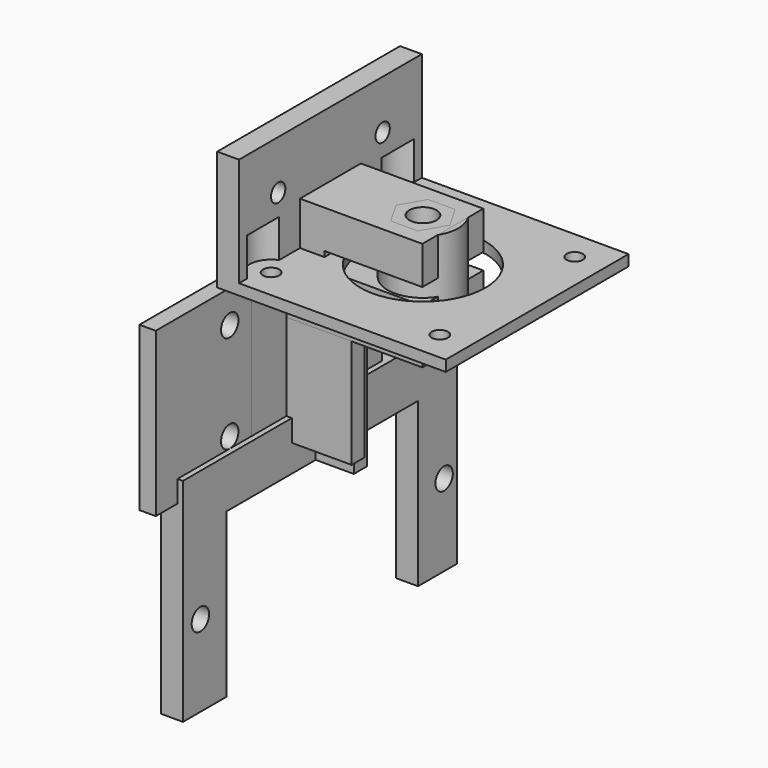
from build123d import *

# Parameters (mm, degrees)
CYLINDER004_R           = 2.5
CYLINDER004_DEPTH       = 20
CYLINDER005_R           = 1.3
CYLINDER005_DEPTH       = 20
CYLINDER005_ROLL_ANGLE  = 90
CYLINDER006_R           = 1.3
CYLINDER006_DEPTH       = 20
CYLINDER006_ROLL_ANGLE  = 90
CYLINDER003_R           = 6.5
CYLINDER003_DEPTH       = 20
CYLINDER010_R           = 1.5
CYLINDER010_DEPTH       = 10
CYLINDER014_R           = 1.65
CYLINDER014_DEPTH       = 10
CYLINDER014_PITCH_ANGLE = 90
CYLINDER011_R           = 1.5
CYLINDER011_DEPTH       = 10
CYLINDER007_R           = 11.5
CYLINDER007_DEPTH       = 10
CYLINDER008_R           = 1.5
CYLINDER008_DEPTH       = 10
CYLINDER009_R           = 1.5
CYLINDER009_DEPTH       = 10
CYLINDER012_R           = 4
CYLINDER012_DEPTH       = 7
CYLINDER013_R           = 4
CYLINDER013_DEPTH       = 7
CYLINDER015_R           = 1.65
CYLINDER015_DEPTH       = 10
CYLINDER015_PITCH_ANGLE = 90
BOX004_W                = 42
BOX004_H                = 42
BOX004_DEPTH            = 2
BOX005_W                = 4
BOX005_H                = 42
BOX005_DEPTH            = 22
CYLINDER020_R           = 2
CYLINDER020_DEPTH       = 10
CYLINDER020_PITCH_ANGLE = 90
CYLINDER019_R           = 2
CYLINDER019_DEPTH       = 10
CYLINDER019_PITCH_ANGLE = 90
BOX013_W                = 15
BOX013_H                = 3
BOX013_DEPTH            = 30
BOX012_W                = 3
BOX012_H                = 44
BOX012_DEPTH            = 30
CYLINDER018_R           = 2.75
CYLINDER018_DEPTH       = 200
PRISM003_DEPTH          = 4
PRISM002_DEPTH          = 4
BOX010_W                = 28
BOX010_H                = 14
BOX010_DEPTH            = 10
BOX011_W                = 10
BOX011_H                = 14
BOX011_DEPTH            = 20
BOX009_W                = 28
BOX009_H                = 14
BOX009_DEPTH            = 7
CYLINDER017_R           = 2
CYLINDER017_DEPTH       = 10
CYLINDER017_PITCH_ANGLE = 90
CYLINDER016_R           = 2
CYLINDER016_DEPTH       = 10
CYLINDER016_PITCH_ANGLE = 90
BOX014_W                = 40
BOX014_H                = 44
BOX014_DEPTH            = 30
BOX007_W                = 3
BOX007_H                = 30
BOX007_DEPTH            = 65
CYLINDER_R              = 2.75
CYLINDER_DEPTH          = 200
PRISM001_DEPTH          = 4
PRISM_DEPTH             = 4
BOX003_W                = 28
BOX003_H                = 14
BOX003_DEPTH            = 10
BOX006_W                = 10
BOX006_H                = 14
BOX006_DEPTH            = 20
BOX_W                   = 28
BOX_H                   = 14
BOX_DEPTH               = 7
BOX015_W                = 4
BOX015_H                = 63
BOX015_DEPTH            = 39
BOX008_W                = 11
BOX008_H                = 3
BOX008_DEPTH            = 65


with BuildPart() as cylinder004:
    # Cylinder004 → Cylinder004 (new body)
    with BuildSketch(Plane.XY.offset(-10)):
        Circle(CYLINDER004_R)
    extrude(amount=CYLINDER004_DEPTH)


with BuildPart() as cylinder005:
    # Cylinder005 → Cylinder005 (new body)
    with BuildSketch(Plane.XY):
        Circle(CYLINDER005_R)
    extrude(amount=CYLINDER005_DEPTH)


with BuildPart() as cylinder005_1:
    # Cylinder005 roll: moved
    add(cylinder005.part.rotate(Axis((0, 0, 0), (1, 0, 0)), CYLINDER005_ROLL_ANGLE))


with BuildPart() as cylinder005_2:
    # Cylinder005 placement: moved
    add(cylinder005_1.part.moved(Location((0, 10, -5))))


with BuildPart() as fusion002:
    # Cylinder006 → Cylinder006 (new body)
    with BuildSketch(Plane.XY):
        Circle(CYLINDER006_R)
    extrude(amount=CYLINDER006_DEPTH)


with BuildPart() as fusion002_1:
    # Cylinder006 roll: moved
    add(fusion002.part.rotate(Axis((0, 0, 0), (1, 0, 0)), CYLINDER006_ROLL_ANGLE))


with BuildPart() as fusion002_2:
    # Cylinder006 placement: moved
    add(fusion002_1.part.moved(Location((0, 10, 5))))

    # Fusion002: union Cylinder004, Cylinder005
    add(cylinder004.part)
    add(cylinder005_2.part)


with BuildPart() as cut001:
    # Cylinder003 → Cylinder003 (new body)
    with BuildSketch(Plane.XY.offset(-10)):
        Circle(CYLINDER003_R)
    extrude(amount=CYLINDER003_DEPTH)

    # Cut001: cut Fusion002
    add(fusion002_2.part, mode=Mode.SUBTRACT)


with BuildPart() as cylinder010:
    # Cylinder010 → Cylinder010 (new body)
    with BuildSketch(Plane(origin=(-15.5, -15.5, 0), x_dir=(1, 0, 0), z_dir=(0, 0, 1))):
        Circle(CYLINDER010_R)
    extrude(amount=CYLINDER010_DEPTH)


with BuildPart() as cylinder014:
    # Cylinder014 → Cylinder014 (new body)
    with BuildSketch(Plane.XY):
        Circle(CYLINDER014_R)
    extrude(amount=CYLINDER014_DEPTH)


with BuildPart() as cylinder014_1:
    # Cylinder014 pitch: moved
    add(cylinder014.part.rotate(Axis((0, 0, 0), (0, 1, 0)), CYLINDER014_PITCH_ANGLE))


with BuildPart() as cylinder014_2:
    # Cylinder014 placement: moved
    add(cylinder014_1.part.moved(Location((-23, -12, 13))))


with BuildPart() as cylinder011:
    # Cylinder011 → Cylinder011 (new body)
    with BuildSketch(Plane(origin=(15.5, -15.5, 0), x_dir=(1, 0, 0), z_dir=(0, 0, 1))):
        Circle(CYLINDER011_R)
    extrude(amount=CYLINDER011_DEPTH)


with BuildPart() as cylinder007:
    # Cylinder007 → Cylinder007 (new body)
    with BuildSketch(Plane.XY):
        Circle(CYLINDER007_R)
    extrude(amount=CYLINDER007_DEPTH)


with BuildPart() as cylinder008:
    # Cylinder008 → Cylinder008 (new body)
    with BuildSketch(Plane(origin=(-15.5, 15.5, 0), x_dir=(1, 0, 0), z_dir=(0, 0, 1))):
        Circle(CYLINDER008_R)
    extrude(amount=CYLINDER008_DEPTH)


with BuildPart() as cylinder009:
    # Cylinder009 → Cylinder009 (new body)
    with BuildSketch(Plane(origin=(15.5, 15.5, 0), x_dir=(1, 0, 0), z_dir=(0, 0, 1))):
        Circle(CYLINDER009_R)
    extrude(amount=CYLINDER009_DEPTH)


with BuildPart() as cylinder012:
    # Cylinder012 → Cylinder012 (new body)
    with BuildSketch(Plane(origin=(-15.5, -15.5, 2), x_dir=(1, 0, 0), z_dir=(0, 0, 1))):
        Circle(CYLINDER012_R)
    extrude(amount=CYLINDER012_DEPTH)


with BuildPart() as cylinder013:
    # Cylinder013 → Cylinder013 (new body)
    with BuildSketch(Plane(origin=(-15.5, 15.5, 2), x_dir=(1, 0, 0), z_dir=(0, 0, 1))):
        Circle(CYLINDER013_R)
    extrude(amount=CYLINDER013_DEPTH)


with BuildPart() as fusion004:
    # Cylinder015 → Cylinder015 (new body)
    with BuildSketch(Plane.XY):
        Circle(CYLINDER015_R)
    extrude(amount=CYLINDER015_DEPTH)


with BuildPart() as fusion004_1:
    # Cylinder015 pitch: moved
    add(fusion004.part.rotate(Axis((0, 0, 0), (0, 1, 0)), CYLINDER015_PITCH_ANGLE))


with BuildPart() as fusion004_2:
    # Cylinder015 placement: moved
    add(fusion004_1.part.moved(Location((-23, 12, 13))))

    # Fusion004: union Cylinder010, Cylinder014, Cylinder011, Cylinder007, Cylinder008, Cylinder009, Cylinder012, Cylinder013
    add(cylinder010.part)
    add(cylinder014_2.part)
    add(cylinder011.part)
    add(cylinder007.part)
    add(cylinder008.part)
    add(cylinder009.part)
    add(cylinder012.part)
    add(cylinder013.part)


with BuildPart() as box004:
    # Box004 → Box004 (new body)
    with BuildSketch(Plane(origin=(-21, -21, 0), x_dir=(1, 0, 0), z_dir=(0, 0, 1))):
        with Locations((21, 21)):
            Rectangle(BOX004_W, BOX004_H)
    extrude(amount=BOX004_DEPTH)


with BuildPart() as cut002:
    # Box005 → Box005 (new body)
    with BuildSketch(Plane(origin=(-21, -21, 0), x_dir=(1, 0, 0), z_dir=(0, 0, 1))):
        with Locations((2, 21)):
            Rectangle(BOX005_W, BOX005_H)
    extrude(amount=BOX005_DEPTH)

    # Fusion003: union Box004
    add(box004.part)

    # Cut002: cut Fusion004
    add(fusion004_2.part, mode=Mode.SUBTRACT)


with BuildPart() as cylinder020:
    # Cylinder020 → Cylinder020 (new body)
    with BuildSketch(Plane.XY):
        Circle(CYLINDER020_R)
    extrude(amount=CYLINDER020_DEPTH)


with BuildPart() as cylinder020_1:
    # Cylinder020 pitch: moved
    add(cylinder020.part.rotate(Axis((0, 0, 0), (0, 1, 0)), CYLINDER020_PITCH_ANGLE))


with BuildPart() as cylinder020_2:
    # Cylinder020 placement: moved
    add(cylinder020_1.part.moved(Location((-22.5, -20, -24))))


with BuildPart() as fusion012:
    # Cylinder019 → Cylinder019 (new body)
    with BuildSketch(Plane.XY):
        Circle(CYLINDER019_R)
    extrude(amount=CYLINDER019_DEPTH)


with BuildPart() as fusion012_1:
    # Cylinder019 pitch: moved
    add(fusion012.part.rotate(Axis((0, 0, 0), (0, 1, 0)), CYLINDER019_PITCH_ANGLE))


with BuildPart() as fusion012_2:
    # Cylinder019 placement: moved
    add(fusion012_1.part.moved(Location((-22.5, -20, -6))))

    # Fusion012: union Cylinder020
    add(cylinder020_2.part)


with BuildPart() as box013:
    # Box013 → Box013 (new body)
    with BuildSketch(Plane(origin=(-22.5, -7, -30), x_dir=(1, 0, 0), z_dir=(0, 0, 1))):
        with Locations((7.5, 1.5)):
            Rectangle(BOX013_W, BOX013_H)
    extrude(amount=BOX013_DEPTH)


with BuildPart() as cut005:
    # Box012 → Box012 (new body)
    with BuildSketch(Plane(origin=(-22.5, -37, -30), x_dir=(1, 0, 0), z_dir=(0, 0, 1))):
        with Locations((1.5, 22)):
            Rectangle(BOX012_W, BOX012_H)
    extrude(amount=BOX012_DEPTH)

    # Fusion011: union Box013
    add(box013.part)

    # Cut005: cut Fusion012
    add(fusion012_2.part, mode=Mode.SUBTRACT)


with BuildPart() as cylinder018:
    # Cylinder018 → Cylinder018 (new body)
    with BuildSketch(Plane.XY.offset(-100)):
        Circle(CYLINDER018_R)
    extrude(amount=CYLINDER018_DEPTH)


with BuildPart() as prism003:
    # Prism003 → Prism003 (new body)
    with BuildSketch(Plane.XY.offset(6)):
        Polygon((4.95, 0), (2.475, 4.286826), (-2.475, 4.286826), (-4.95, 0), (-2.475, -4.286826), (2.475, -4.286826), align=None)
    extrude(amount=PRISM003_DEPTH)


with BuildPart() as fusion009:
    # Prism002 → Prism002 (new body)
    with BuildSketch(Plane.XY.offset(-10)):
        Polygon((4.7, 0), (2.35, 4.070319), (-2.35, 4.070319), (-4.7, 0), (-2.35, -4.070319), (2.35, -4.070319), align=None)
    extrude(amount=PRISM002_DEPTH)

    # Fusion009: union Cylinder018, Prism003
    add(cylinder018.part)
    add(prism003.part)


with BuildPart() as box010:
    # Box010 → Box010 (new body)
    with BuildSketch(Plane(origin=(-22.5, -7, -10), x_dir=(1, 0, 0), z_dir=(0, 0, 1))):
        with Locations((14, 7)):
            Rectangle(BOX010_W, BOX010_H)
    extrude(amount=BOX010_DEPTH)


with BuildPart() as box011:
    # Box011 → Box011 (new body)
    with BuildSketch(Plane(origin=(-22.5, -7, -10), x_dir=(1, 0, 0), z_dir=(0, 0, 1))):
        with Locations((5, 7)):
            Rectangle(BOX011_W, BOX011_H)
    extrude(amount=BOX011_DEPTH)


with BuildPart() as fusion013:
    # Box009 → Box009 (new body)
    with BuildSketch(Plane(origin=(-22.5, -7, 3), x_dir=(1, 0, 0), z_dir=(0, 0, 1))):
        with Locations((14, 7)):
            Rectangle(BOX009_W, BOX009_H)
    extrude(amount=BOX009_DEPTH)

    # Fusion008: union Box010, Box011
    add(box010.part)
    add(box011.part)

    # Cut004: cut Fusion009
    add(fusion009.part, mode=Mode.SUBTRACT)

    # Fusion013: union Cut005
    add(cut005.part)


with BuildPart() as cylinder017:
    # Cylinder017 → Cylinder017 (new body)
    with BuildSketch(Plane.XY):
        Circle(CYLINDER017_R)
    extrude(amount=CYLINDER017_DEPTH)


with BuildPart() as cylinder017_1:
    # Cylinder017 pitch: moved
    add(cylinder017.part.rotate(Axis((0, 0, 0), (0, 1, 0)), CYLINDER017_PITCH_ANGLE))


with BuildPart() as cylinder017_2:
    # Cylinder017 placement: moved
    add(cylinder017_1.part.moved(Location((-22.5, -28, -50))))


with BuildPart() as cylinder016:
    # Cylinder016 → Cylinder016 (new body)
    with BuildSketch(Plane.XY):
        Circle(CYLINDER016_R)
    extrude(amount=CYLINDER016_DEPTH)


with BuildPart() as cylinder016_1:
    # Cylinder016 pitch: moved
    add(cylinder016.part.rotate(Axis((0, 0, 0), (0, 1, 0)), CYLINDER016_PITCH_ANGLE))


with BuildPart() as cylinder016_2:
    # Cylinder016 placement: moved
    add(cylinder016_1.part.moved(Location((-22.5, 28, -50))))


with BuildPart() as fusion014:
    # Box014 → Box014 (new body)
    with BuildSketch(Plane(origin=(-22.5, -22, -65), x_dir=(1, 0, 0), z_dir=(0, 0, 1))):
        with Locations((20, 22)):
            Rectangle(BOX014_W, BOX014_H)
    extrude(amount=BOX014_DEPTH)

    # Fusion014: union Cylinder017, Cylinder016
    add(cylinder017_2.part)
    add(cylinder016_2.part)


with BuildPart() as box007:
    # Box007 → Box007 (new body)
    with BuildSketch(Plane(origin=(-22.5, -15, -65), x_dir=(1, 0, 0), z_dir=(0, 0, 1))):
        with Locations((1.5, 15)):
            Rectangle(BOX007_W, BOX007_H)
    extrude(amount=BOX007_DEPTH)


with BuildPart() as cylinder:
    # Cylinder → Cylinder (new body)
    with BuildSketch(Plane.XY.offset(-100)):
        Circle(CYLINDER_R)
    extrude(amount=CYLINDER_DEPTH)


with BuildPart() as prism001:
    # Prism001 → Prism001 (new body)
    with BuildSketch(Plane.XY.offset(6)):
        Polygon((4.95, 0), (2.475, 4.286826), (-2.475, 4.286826), (-4.95, 0), (-2.475, -4.286826), (2.475, -4.286826), align=None)
    extrude(amount=PRISM001_DEPTH)


with BuildPart() as fusion:
    # Prism → Prism (new body)
    with BuildSketch(Plane.XY.offset(-10)):
        Polygon((4.7, 0), (2.35, 4.070319), (-2.35, 4.070319), (-4.7, 0), (-2.35, -4.070319), (2.35, -4.070319), align=None)
    extrude(amount=PRISM_DEPTH)

    # Fusion: union Cylinder, Prism001
    add(cylinder.part)
    add(prism001.part)


with BuildPart() as box003:
    # Box003 → Box003 (new body)
    with BuildSketch(Plane(origin=(-22.5, -7, -10), x_dir=(1, 0, 0), z_dir=(0, 0, 1))):
        with Locations((14, 7)):
            Rectangle(BOX003_W, BOX003_H)
    extrude(amount=BOX003_DEPTH)


with BuildPart() as box006:
    # Box006 → Box006 (new body)
    with BuildSketch(Plane(origin=(-22.5, -7, -10), x_dir=(1, 0, 0), z_dir=(0, 0, 1))):
        with Locations((5, 7)):
            Rectangle(BOX006_W, BOX006_H)
    extrude(amount=BOX006_DEPTH)


with BuildPart() as cut:
    # Box → Box (new body)
    with BuildSketch(Plane(origin=(-22.5, -7, 3), x_dir=(1, 0, 0), z_dir=(0, 0, 1))):
        with Locations((14, 7)):
            Rectangle(BOX_W, BOX_H)
    extrude(amount=BOX_DEPTH)

    # Fusion005: union Box003, Box006
    add(box003.part)
    add(box006.part)

    # Cut: cut Fusion
    add(fusion.part, mode=Mode.SUBTRACT)


with BuildPart() as box015:
    # Box015 → Box015 (new body)
    with BuildSketch(Plane(origin=(-22.5, -32, -65), x_dir=(1, 0, 0), z_dir=(0, 0, 1))):
        with Locations((2, 31.5)):
            Rectangle(BOX015_W, BOX015_H)
    extrude(amount=BOX015_DEPTH)


with BuildPart() as cut006:
    # Box008 → Box008 (new body)
    with BuildSketch(Plane(origin=(-22.5, -1.5, -65), x_dir=(1, 0, 0), z_dir=(0, 0, 1))):
        with Locations((5.5, 1.5)):
            Rectangle(BOX008_W, BOX008_H)
    extrude(amount=BOX008_DEPTH)

    # Fusion015: union Box007, Cut, Box015
    add(box007.part)
    add(cut.part)
    add(box015.part)

    # Cut006: cut Fusion014
    add(fusion014.part, mode=Mode.SUBTRACT)


solid = Compound([cut001.part, cut002.part, fusion013.part, cut006.part])
